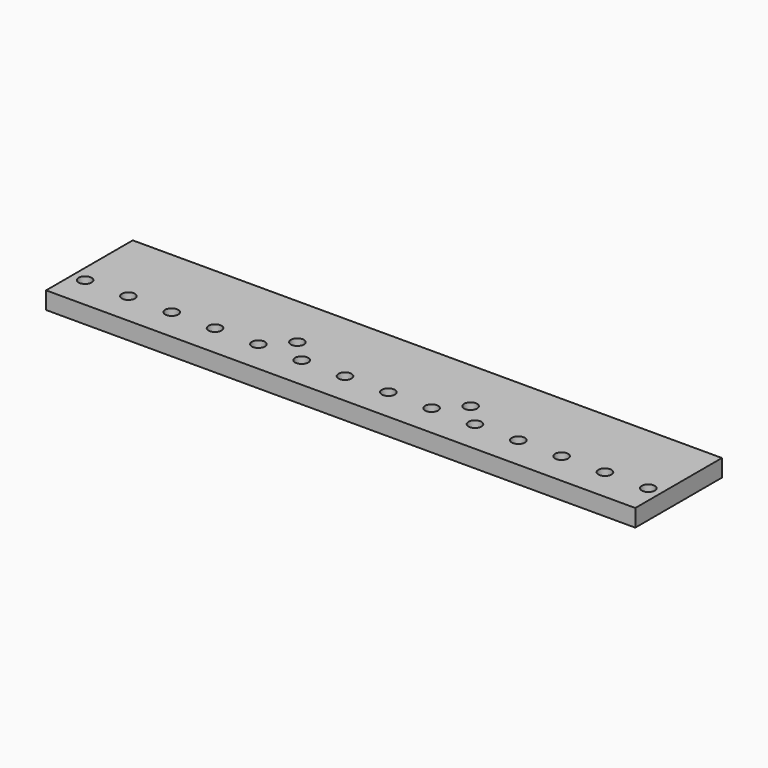
from build123d import *

# Parameters (mm, degrees)
F0_W     = 272
F0_H     = 50
F0_R     = 3
F1_DEPTH = 8


with BuildPart() as f1:
    # F0 (on Top) → F1 (new body)
    with BuildSketch(Plane.XY):
        Rectangle(F0_W, F0_H)
        with Locations((-130, -10)):
            Circle(F0_R, mode=Mode.SUBTRACT)
        with Locations((-110, -10)):
            Circle(F0_R, mode=Mode.SUBTRACT)
        with Locations((-90, -10)):
            Circle(F0_R, mode=Mode.SUBTRACT)
        with Locations((-70, -10)):
            Circle(F0_R, mode=Mode.SUBTRACT)
        with Locations((-50, -10)):
            Circle(F0_R, mode=Mode.SUBTRACT)
        with Locations((-30, -10)):
            Circle(F0_R, mode=Mode.SUBTRACT)
        with Locations((-10, -10)):
            Circle(F0_R, mode=Mode.SUBTRACT)
        with Locations((10, -10)):
            Circle(F0_R, mode=Mode.SUBTRACT)
        with Locations((30, -10)):
            Circle(F0_R, mode=Mode.SUBTRACT)
        with Locations((50, -10)):
            Circle(F0_R, mode=Mode.SUBTRACT)
        with Locations((70, -10)):
            Circle(F0_R, mode=Mode.SUBTRACT)
        with Locations((90, -10)):
            Circle(F0_R, mode=Mode.SUBTRACT)
        with Locations((110, -10)):
            Circle(F0_R, mode=Mode.SUBTRACT)
        with Locations((130, -10)):
            Circle(F0_R, mode=Mode.SUBTRACT)
        with Locations((-40, 0)):
            Circle(F0_R, mode=Mode.SUBTRACT)
        with Locations((40, 0)):
            Circle(F0_R, mode=Mode.SUBTRACT)
    extrude(amount=F1_DEPTH)


solid = f1.part
